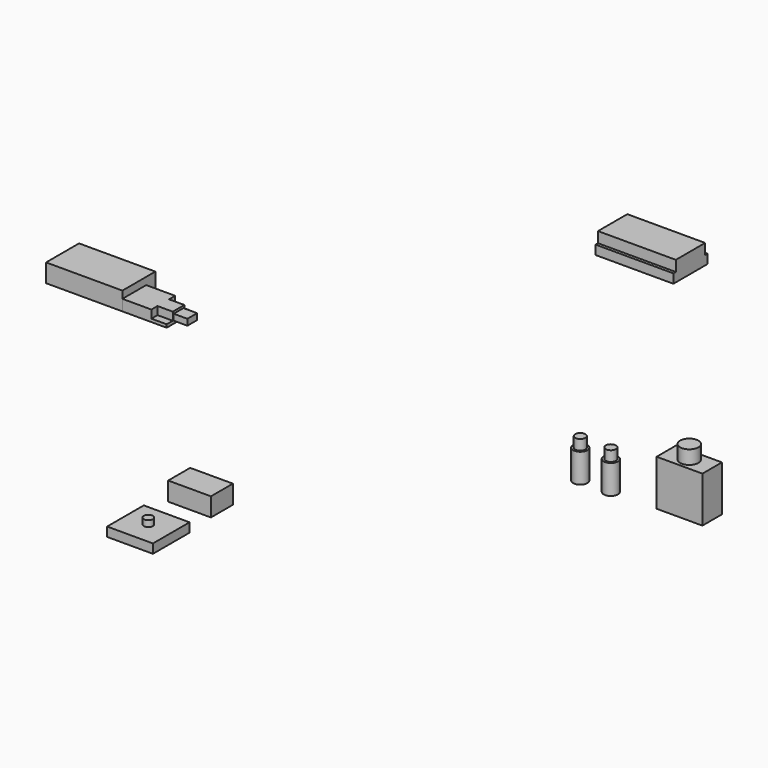
from build123d import *

# Parameters (mm, degrees)
CYLINDER_R        = 6
CYLINDER_DEPTH    = 9
BOX_W             = 30
BOX_H             = 16
BOX_DEPTH         = 30
BOX002_W          = 51
BOX002_H          = 24
BOX002_DEPTH      = 7
BOX001_W          = 51
BOX001_H          = 28
BOX001_DEPTH      = 6
BOX003_W          = 50
BOX003_H          = 27
BOX003_DEPTH      = 12
CYLINDER002_R     = 3.35
CYLINDER002_DEPTH = 6.7
CYLINDER001_R     = 4.65
CYLINDER001_DEPTH = 19
CYLINDER004_R     = 3.35
CYLINDER004_DEPTH = 6.7
CYLINDER003_R     = 4.65
CYLINDER003_DEPTH = 19
BOX007_W          = 10
BOX007_H          = 10
BOX007_DEPTH      = 10
BOX006_W          = 10
BOX006_H          = 10
BOX006_DEPTH      = 10
BOX005_W          = 10
BOX005_H          = 8
BOX005_DEPTH      = 4
BOX004_W          = 29
BOX004_H          = 19.5
BOX004_DEPTH      = 7.25
BOX008_W          = 28
BOX008_H          = 18
BOX008_DEPTH      = 12.2
CYLINDER005_R     = 3
CYLINDER005_DEPTH = 10
BOX009_W          = 30
BOX009_H          = 30
BOX009_DEPTH      = 6


with BuildPart() as cylinder:
    # Cylinder → Cylinder (new body)
    with BuildSketch(Plane(origin=(15, 8, 30), x_dir=(1, 0, 0), z_dir=(0, 0, 1))):
        Circle(CYLINDER_R)
    extrude(amount=CYLINDER_DEPTH)


with BuildPart() as awesome_switch:
    # Box → Box (new body)
    with BuildSketch(Plane.XY):
        with Locations((15, 8)):
            Rectangle(BOX_W, BOX_H)
    extrude(amount=BOX_DEPTH)

    # Fusion: union Cylinder
    add(cylinder.part)


with BuildPart() as awesome_switch_1:
    # Fusion placement: moved
    add(awesome_switch.part.moved(Location((200, 0, 0))))


with BuildPart() as cube002:
    # Box002 → Box002 (new body)
    with BuildSketch(Plane(origin=(0, 2, 6), x_dir=(1, 0, 0), z_dir=(0, 0, 1))):
        with Locations((25.5, 12)):
            Rectangle(BOX002_W, BOX002_H)
    extrude(amount=BOX002_DEPTH)


with BuildPart() as lcd_display:
    # Box001 → Box001 (new body)
    with BuildSketch(Plane.XY):
        with Locations((25.5, 14)):
            Rectangle(BOX001_W, BOX001_H)
    extrude(amount=BOX001_DEPTH)

    # Fusion001: union Cube002
    add(cube002.part)


with BuildPart() as lcd_display_1:
    # Fusion001 placement: moved
    add(lcd_display.part.moved(Location((0, 200, 0))))


with BuildPart() as lipo_battery:
    # Box003 → Box003 (new body)
    with BuildSketch(Plane(origin=(-200, 0, 0), x_dir=(1, 0, 0), z_dir=(0, 0, 1))):
        with Locations((25, 13.5)):
            Rectangle(BOX003_W, BOX003_H)
    extrude(amount=BOX003_DEPTH)


with BuildPart() as cylinder002:
    # Cylinder002 → Cylinder002 (new body)
    with BuildSketch(Plane.XY.offset(19)):
        Circle(CYLINDER002_R)
    extrude(amount=CYLINDER002_DEPTH)


with BuildPart() as push_button_mode_reset:
    # Cylinder001 → Cylinder001 (new body)
    with BuildSketch(Plane.XY):
        Circle(CYLINDER001_R)
    extrude(amount=CYLINDER001_DEPTH)

    # Fusion002: union Cylinder002
    add(cylinder002.part)


with BuildPart() as push_button_mode_reset_1:
    # Fusion002 placement: moved
    add(push_button_mode_reset.part.moved(Location((150, 0, 0))))


with BuildPart() as cylinder004:
    # Cylinder004 → Cylinder004 (new body)
    with BuildSketch(Plane.XY.offset(19)):
        Circle(CYLINDER004_R)
    extrude(amount=CYLINDER004_DEPTH)


with BuildPart() as push_button_start_stop:
    # Cylinder003 → Cylinder003 (new body)
    with BuildSketch(Plane.XY):
        Circle(CYLINDER003_R)
    extrude(amount=CYLINDER003_DEPTH)

    # Fusion003: union Cylinder004
    add(cylinder004.part)


with BuildPart() as push_button_start_stop_1:
    # Fusion003 placement: moved
    add(push_button_start_stop.part.moved(Location((170, 0, 0))))


with BuildPart() as cube006:
    # Box007 → Box007 (new body)
    with BuildSketch(Plane(origin=(19, 14.5, 2), x_dir=(1, 0, 0), z_dir=(0, 0, 1))):
        with Locations((5, 5)):
            Rectangle(BOX007_W, BOX007_H)
    extrude(amount=BOX007_DEPTH)


with BuildPart() as cube005:
    # Box006 → Box006 (new body)
    with BuildSketch(Plane(origin=(19, -5, 2), x_dir=(1, 0, 0), z_dir=(0, 0, 1))):
        with Locations((5, 5)):
            Rectangle(BOX006_W, BOX006_H)
    extrude(amount=BOX006_DEPTH)


with BuildPart() as cube004:
    # Box005 → Box005 (new body)
    with BuildSketch(Plane(origin=(28, 5.75, 1.75), x_dir=(1, 0, 0), z_dir=(0, 0, 1))):
        with Locations((5, 4)):
            Rectangle(BOX005_W, BOX005_H)
    extrude(amount=BOX005_DEPTH)


with BuildPart() as usb_battery_charger:
    # Box004 → Box004 (new body)
    with BuildSketch(Plane.XY):
        with Locations((14.5, 9.75)):
            Rectangle(BOX004_W, BOX004_H)
    extrude(amount=BOX004_DEPTH)

    # Fusion004: union Cube004
    add(cube004.part)

    # Cut: cut Cube005
    add(cube005.part, mode=Mode.SUBTRACT)

    # Cut001: cut Cube006
    add(cube006.part, mode=Mode.SUBTRACT)


with BuildPart() as usb_battery_charger_1:
    # Cut001 placement: moved
    add(usb_battery_charger.part.moved(Location((-150, 0, 0))))


with BuildPart() as obj1:
    # Box008 → Box008 (new body)
    with BuildSketch(Plane(origin=(0, -150, 0), x_dir=(1, 0, 0), z_dir=(0, 0, 1))):
        with Locations((14, 9)):
            Rectangle(BOX008_W, BOX008_H)
    extrude(amount=BOX008_DEPTH)


with BuildPart() as cylinder005:
    # Cylinder005 → Cylinder005 (new body)
    with BuildSketch(Plane(origin=(15, 15, 0), x_dir=(1, 0, 0), z_dir=(0, 0, 1))):
        Circle(CYLINDER005_R)
    extrude(amount=CYLINDER005_DEPTH)


with BuildPart() as obj2:
    # Box009 → Box009 (new body)
    with BuildSketch(Plane.XY):
        with Locations((15, 15)):
            Rectangle(BOX009_W, BOX009_H)
    extrude(amount=BOX009_DEPTH)

    # Fusion005: union Cylinder005
    add(cylinder005.part)


with BuildPart() as obj2_1:
    # Fusion005 placement: moved
    add(obj2.part.moved(Location((0, -200, 0))))


solid = Compound([awesome_switch_1.part, lcd_display_1.part, lipo_battery.part, push_button_mode_reset_1.part, push_button_start_stop_1.part, usb_battery_charger_1.part, obj1.part, obj2_1.part])
